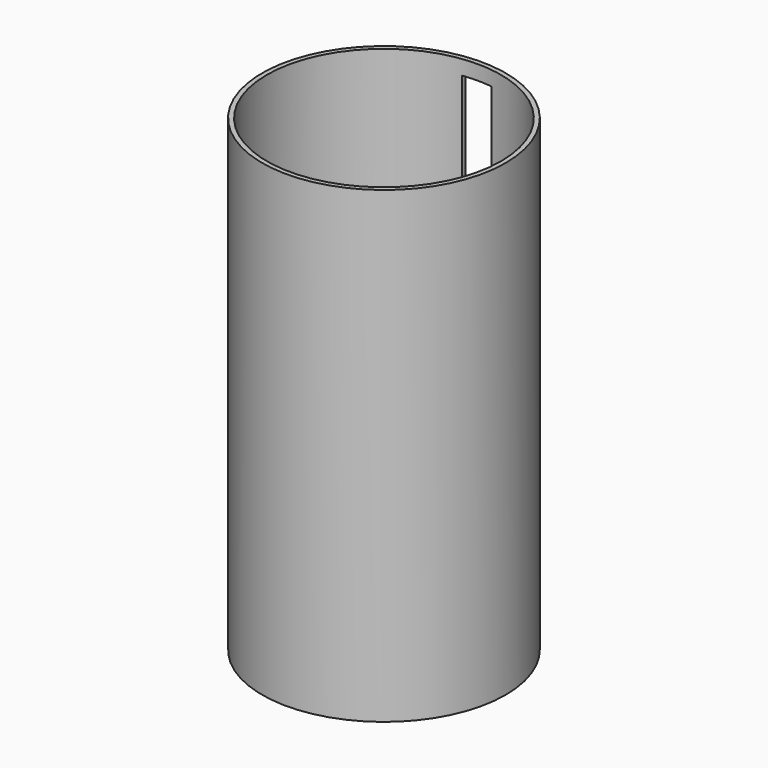
from build123d import *

# Parameters (mm, degrees)
F0_R     = 52.832
F0_R_2   = 50.8
F1_DEPTH = 203.2
F2_W     = 6.477
F2_H     = 177.8
F3_DEPTH = 76.2


with BuildPart() as f1:
    # F0 (on Top) → F1 (new body)
    with BuildSketch(Plane.XY):
        Circle(F0_R)
        Circle(F0_R_2, mode=Mode.SUBTRACT)
    extrude(amount=F1_DEPTH)

    # F2 (on Front) → F3 (cut)
    with BuildSketch(Plane.XZ):
        with Locations((-3.2385, 107.95)):
            Rectangle(F2_W, F2_H)
        with Locations((3.2385, 107.95)):
            Rectangle(F2_W, F2_H)
    extrude(amount=-F3_DEPTH, mode=Mode.SUBTRACT)


solid = f1.part
